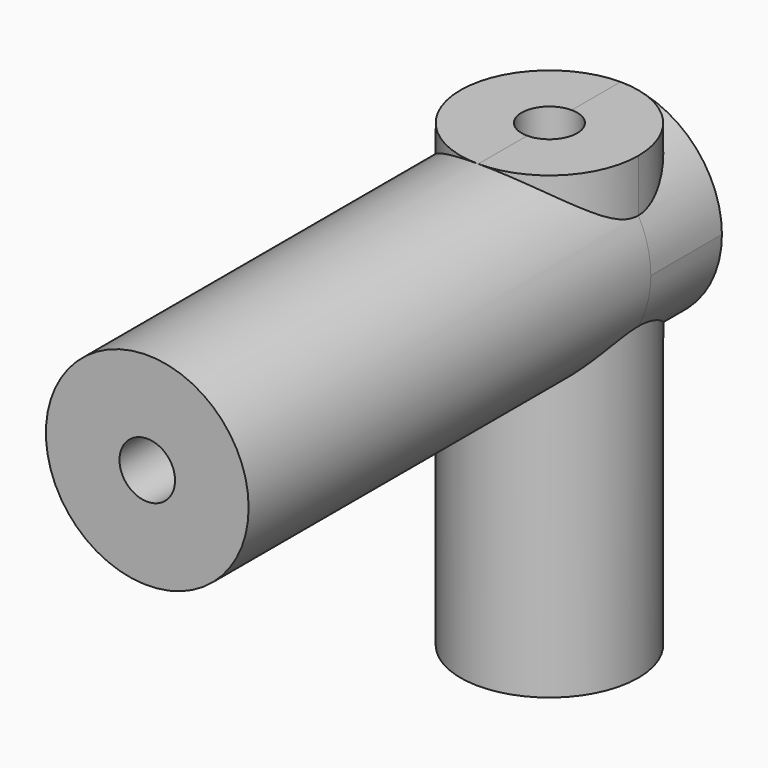
from build123d import *

# Parameters (mm, degrees)
SKETCH011_R          = 1.6
PAD002_DEPTH         = 8.275
SKETCH012_R          = 1.825
PAD003_DEPTH         = 9.05
PAD003_DEPTH_BACK    = 1.6
SKETCH013_R          = 0.5
POCKET007_DEPTH      = 0.001
POCKET007_DEPTH_BACK = 9.076
SKETCH014_R          = 0.5
POCKET008_DEPTH      = 10.651


with BuildPart() as part:
    # Sketch011 → Pad002 (new body)
    with BuildSketch(Plane.XY.offset(0.8)):
        Circle(SKETCH011_R)
    extrude(amount=PAD002_DEPTH)

    # Sketch012 → Pad003 (join, two sides)
    with BuildSketch(Plane.XZ) as pad003_sk:
        with Locations((0, 7.25)):
            Circle(SKETCH012_R)
    extrude(amount=PAD003_DEPTH)
    extrude(pad003_sk.sketch, amount=-PAD003_DEPTH_BACK)

    # Sketch013 → Pocket007 (cut, two sides)
    with BuildSketch(Plane.XY) as pocket007_sk:
        Circle(SKETCH013_R)
    extrude(amount=-POCKET007_DEPTH, mode=Mode.SUBTRACT)
    extrude(pocket007_sk.sketch, amount=POCKET007_DEPTH_BACK, mode=Mode.SUBTRACT)

    # Sketch014 (on DatumPlane) → Pocket008 (cut, through all)
    with BuildSketch(Plane.XZ.offset(9.05)):
        with Locations((0, 7.25)):
            Circle(SKETCH014_R)
    extrude(amount=-POCKET008_DEPTH, mode=Mode.SUBTRACT)


solid = part.part
